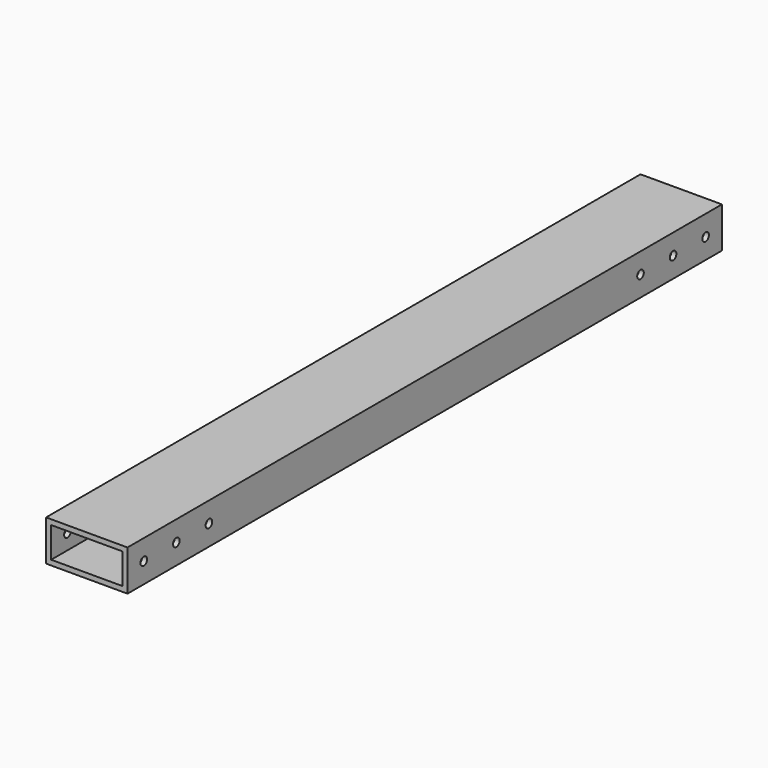
from build123d import *

# Parameters (mm, degrees)
F0_W     = 50.8
F0_H     = 25.4
F0_W_2   = 44.45
F0_H_2   = 19.05
F1_DEPTH = 463.55
F2_R     = 2.5781
F3_DEPTH = 50.801


with BuildPart() as f1:
    # F0 (on Front) → F1 (new body)
    with BuildSketch(Plane.XZ):
        with Locations((-6.57482, 3.593568)):
            Rectangle(F0_W, F0_H)
        with Locations((-6.57482, 3.593568)):
            Rectangle(F0_W_2, F0_H_2, mode=Mode.SUBTRACT)
    extrude(amount=F1_DEPTH)

    # F2 (on face) → F3 (cut, through all)
    with BuildSketch(Plane(origin=(-31.97482, 0, 0), x_dir=(0, -1, 0), z_dir=(-1, 0, 0))):
        with Locations((12.7, 3.593568)):
            Circle(F2_R)
        with Locations((38.1, 3.593568)):
            Circle(F2_R)
        with Locations((63.5, 3.593568)):
            Circle(F2_R)
        with Locations((400.05, 3.593568)):
            Circle(F2_R)
        with Locations((425.45, 3.593568)):
            Circle(F2_R)
        with Locations((450.85, 3.593568)):
            Circle(F2_R)
    extrude(amount=-F3_DEPTH, mode=Mode.SUBTRACT)


solid = f1.part
